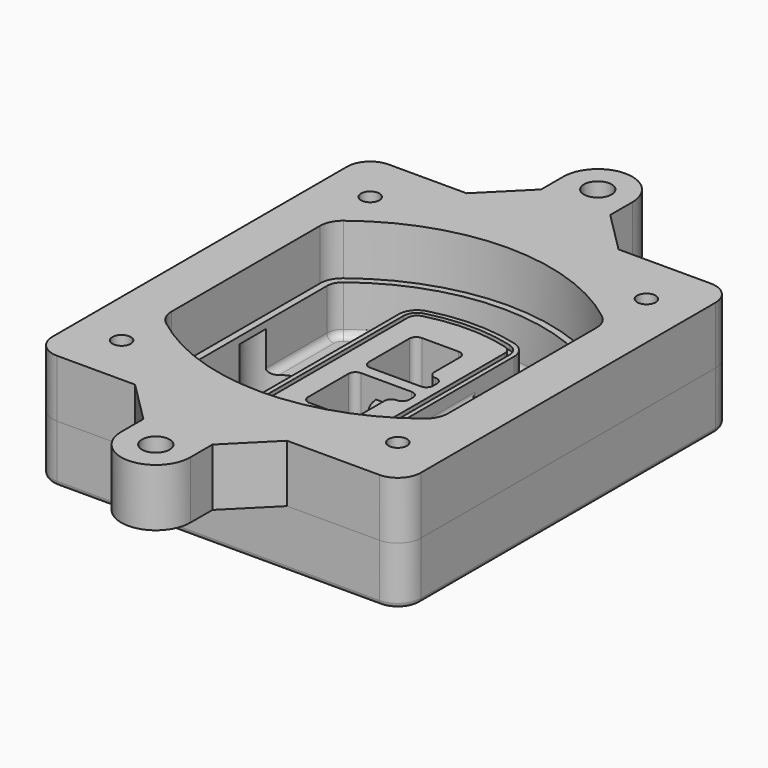
from build123d import *

# Parameters (mm, degrees)
F0_R      = 4
F1_DEPTH  = 25
F2_DEPTH  = 3
F3_DEPTH  = 18
F5_DEPTH  = 21
F6_DEPTH  = 2
F8_DEPTH  = 20
F9_DEPTH  = 16
F10_DEPTH = 25
F7_R      = 6
F7_R_2    = 4
F11_DEPTH = 6
F13_DEPTH = 9
F14_R     = 3
F15_R     = 2
F16_R     = 4
F16_R_2   = 6
F17_DEPTH = 25


with BuildPart() as f1:
    # F0 (on Top) → F1 (new body)
    with BuildSketch(Plane.XY):
        with BuildLine():
            ThreePointArc((-80, -80), (-77.0710678119, -87.0710678119), (-70, -90))
            Line((-70, -90), (70, -90))
            ThreePointArc((70, -90), (77.0710678119, -87.0710678119), (80, -80))
            Line((80, -80), (80, 80))
            ThreePointArc((80, 80), (77.0710678119, 87.0710678119), (70, 90))
            Line((70, 90), (-70, 90))
            ThreePointArc((-70, 90), (-77.0710678119, 87.0710678119), (-80, 80))
            Line((-80, 80), (-80, -80))
        make_face()
        with Locations((-60, -67.5)):
            Circle(F0_R, mode=Mode.SUBTRACT)
        with Locations((60, -67.5)):
            Circle(F0_R, mode=Mode.SUBTRACT)
        with Locations((-60, 67.5)):
            Circle(F0_R, mode=Mode.SUBTRACT)
        with BuildLine():
            ThreePointArc((-64, 40.2934422872), (-62.5820384798, 46.4328484224), (-58.6153846154, 51.3286200352))
            ThreePointArc((-58.6153846154, 51.3286200352), (0, 71.5), (58.6153846154, 51.3286200352))
            ThreePointArc((58.6153846154, 51.3286200352), (62.5820384798, 46.4328484224), (64, 40.2934422872))
            Line((64, 40.2934422872), (64, -40.2934422872))
            ThreePointArc((64, -40.2934422872), (62.5820384798, -46.4328484224), (58.6153846154, -51.3286200352))
            ThreePointArc((58.6153846154, -51.3286200352), (0, -71.5), (-58.6153846154, -51.3286200352))
            ThreePointArc((-58.6153846154, -51.3286200352), (-62.5820384798, -46.4328484224), (-64, -40.2934422872))
            Line((-64, -40.2934422872), (-64, 40.2934422872))
        make_face(mode=Mode.SUBTRACT)
        with Locations((60, 67.5)):
            Circle(F0_R, mode=Mode.SUBTRACT)
        with BuildLine():
            ThreePointArc((58.6153846154, 51.3286200352), (0, 71.5), (-58.6153846154, 51.3286200352))
            ThreePointArc((-58.6153846154, 51.3286200352), (-62.5820384798, 46.4328484224), (-64, 40.2934422872))
            Line((-64, 40.2934422872), (-64, -40.2934422872))
            ThreePointArc((-64, -40.2934422872), (-62.5820384798, -46.4328484224), (-58.6153846154, -51.3286200352))
            ThreePointArc((-58.6153846154, -51.3286200352), (0, -71.5), (58.6153846154, -51.3286200352))
            ThreePointArc((58.6153846154, -51.3286200352), (62.5820384798, -46.4328484224), (64, -40.2934422872))
            Line((64, -40.2934422872), (64, 40.2934422872))
            ThreePointArc((64, 40.2934422872), (62.5820384798, 46.4328484224), (58.6153846154, 51.3286200352))
        make_face()
        with BuildLine():
            Line((-60, -40.2934422872), (-60, 40.2934422872))
            ThreePointArc((-60, 40.2934422872), (-58.9871703427, 44.6787323838), (-56.1538461538, 48.1757121072))
            ThreePointArc((-56.1538461538, 48.1757121072), (0, 67.5), (56.1538461538, 48.1757121072))
            ThreePointArc((56.1538461538, 48.1757121072), (58.9871703427, 44.6787323838), (60, 40.2934422872))
            Line((60, 40.2934422872), (60, -40.2934422872))
            ThreePointArc((60, -40.2934422872), (58.9871703427, -44.6787323838), (56.1538461538, -48.1757121072))
            ThreePointArc((56.1538461538, -48.1757121072), (0, -67.5), (-56.1538461538, -48.1757121072))
            ThreePointArc((-56.1538461538, -48.1757121072), (-58.9871703427, -44.6787323838), (-60, -40.2934422872))
        make_face(mode=Mode.SUBTRACT)
        with BuildLine():
            ThreePointArc((-56.1538461538, 48.1757121072), (-58.9871703427, 44.6787323838), (-60, 40.2934422872))
            Line((-60, 40.2934422872), (-60, -40.2934422872))
            ThreePointArc((-60, -40.2934422872), (-58.9871703427, -44.6787323838), (-56.1538461538, -48.1757121072))
            ThreePointArc((-56.1538461538, -48.1757121072), (0, -67.5), (56.1538461538, -48.1757121072))
            ThreePointArc((56.1538461538, -48.1757121072), (58.9871703427, -44.6787323838), (60, -40.2934422872))
            Line((60, -40.2934422872), (60, 40.2934422872))
            ThreePointArc((60, 40.2934422872), (58.9871703427, 44.6787323838), (56.1538461538, 48.1757121072))
            ThreePointArc((56.1538461538, 48.1757121072), (0, 67.5), (-56.1538461538, 48.1757121072))
        make_face()
        with BuildLine():
            ThreePointArc((54.3076923077, 45.8110311612), (56.2910192399, 43.3631453548), (57, 40.2934422872))
            Line((57, 40.2934422872), (57, -40.2934422872))
            ThreePointArc((57, -40.2934422872), (56.2910192399, -43.3631453548), (54.3076923077, -45.8110311612))
            ThreePointArc((54.3076923077, -45.8110311612), (0, -64.5), (-54.3076923077, -45.8110311612))
            ThreePointArc((-54.3076923077, -45.8110311612), (-56.2910192399, -43.3631453548), (-57, -40.2934422872))
            Line((-57, -40.2934422872), (-57, 40.2934422872))
            ThreePointArc((-57, 40.2934422872), (-56.2910192399, 43.3631453548), (-54.3076923077, 45.8110311612))
            ThreePointArc((-54.3076923077, 45.8110311612), (0, 64.5), (54.3076923077, 45.8110311612))
        make_face(mode=Mode.SUBTRACT)
        with BuildLine():
            Line((57, -40.2934422872), (57, 40.2934422872))
            ThreePointArc((57, 40.2934422872), (56.2910192399, 43.3631453548), (54.3076923077, 45.8110311612))
            ThreePointArc((54.3076923077, 45.8110311612), (0, 64.5), (-54.3076923077, 45.8110311612))
            ThreePointArc((-54.3076923077, 45.8110311612), (-56.2910192399, 43.3631453548), (-57, 40.2934422872))
            Line((-57, 40.2934422872), (-57, -40.2934422872))
            ThreePointArc((-57, -40.2934422872), (-56.2910192399, -43.3631453548), (-54.3076923077, -45.8110311612))
            ThreePointArc((-54.3076923077, -45.8110311612), (0, -64.5), (54.3076923077, -45.8110311612))
            ThreePointArc((54.3076923077, -45.8110311612), (56.2910192399, -43.3631453548), (57, -40.2934422872))
        make_face()
    extrude(amount=-F1_DEPTH)

    # F0 (on Top) → F2 (join)
    with BuildSketch(Plane.XY):
        with BuildLine():
            ThreePointArc((-56.1538461538, 48.1757121072), (-58.9871703427, 44.6787323838), (-60, 40.2934422872))
            Line((-60, 40.2934422872), (-60, -40.2934422872))
            ThreePointArc((-60, -40.2934422872), (-58.9871703427, -44.6787323838), (-56.1538461538, -48.1757121072))
            ThreePointArc((-56.1538461538, -48.1757121072), (0, -67.5), (56.1538461538, -48.1757121072))
            ThreePointArc((56.1538461538, -48.1757121072), (58.9871703427, -44.6787323838), (60, -40.2934422872))
            Line((60, -40.2934422872), (60, 40.2934422872))
            ThreePointArc((60, 40.2934422872), (58.9871703427, 44.6787323838), (56.1538461538, 48.1757121072))
            ThreePointArc((56.1538461538, 48.1757121072), (0, 67.5), (-56.1538461538, 48.1757121072))
        make_face()
        with BuildLine():
            ThreePointArc((54.3076923077, 45.8110311612), (56.2910192399, 43.3631453548), (57, 40.2934422872))
            Line((57, 40.2934422872), (57, -40.2934422872))
            ThreePointArc((57, -40.2934422872), (56.2910192399, -43.3631453548), (54.3076923077, -45.8110311612))
            ThreePointArc((54.3076923077, -45.8110311612), (0, -64.5), (-54.3076923077, -45.8110311612))
            ThreePointArc((-54.3076923077, -45.8110311612), (-56.2910192399, -43.3631453548), (-57, -40.2934422872))
            Line((-57, -40.2934422872), (-57, 40.2934422872))
            ThreePointArc((-57, 40.2934422872), (-56.2910192399, 43.3631453548), (-54.3076923077, 45.8110311612))
            ThreePointArc((-54.3076923077, 45.8110311612), (0, 64.5), (54.3076923077, 45.8110311612))
        make_face(mode=Mode.SUBTRACT)
    extrude(amount=F2_DEPTH)

    # F0 (on Top) → F3 (cut)
    with BuildSketch(Plane.XY):
        with BuildLine():
            Line((57, -40.2934422872), (57, 40.2934422872))
            ThreePointArc((57, 40.2934422872), (56.2910192399, 43.3631453548), (54.3076923077, 45.8110311612))
            ThreePointArc((54.3076923077, 45.8110311612), (0, 64.5), (-54.3076923077, 45.8110311612))
            ThreePointArc((-54.3076923077, 45.8110311612), (-56.2910192399, 43.3631453548), (-57, 40.2934422872))
            Line((-57, 40.2934422872), (-57, -40.2934422872))
            ThreePointArc((-57, -40.2934422872), (-56.2910192399, -43.3631453548), (-54.3076923077, -45.8110311612))
            ThreePointArc((-54.3076923077, -45.8110311612), (0, -64.5), (54.3076923077, -45.8110311612))
            ThreePointArc((54.3076923077, -45.8110311612), (56.2910192399, -43.3631453548), (57, -40.2934422872))
        make_face()
    extrude(amount=-F3_DEPTH, mode=Mode.SUBTRACT)

    # F4 (on face) → F5 (join, through all)
    with BuildSketch(Plane.XY.offset(3)):
        with BuildLine():
            ThreePointArc((-25, -39.2465276821), (-23.3511545998, -44.1109737193), (-19.0842911877, -46.9702398883))
            ThreePointArc((-19.0842911877, -46.9702398883), (0, -49.5), (19.0842911877, -46.9702398883))
            ThreePointArc((19.0842911877, -46.9702398883), (23.3511545998, -44.1109737193), (25, -39.2465276821))
            Line((25, -39.2465276821), (25, 39.2465276821))
            ThreePointArc((25, 39.2465276821), (23.3511545998, 44.1109737193), (19.0842911877, 46.9702398883))
            ThreePointArc((19.0842911877, 46.9702398883), (0, 49.5), (-19.0842911877, 46.9702398883))
            ThreePointArc((-19.0842911877, 46.9702398883), (-23.3511545998, 44.1109737193), (-25, 39.2465276821))
            Line((-25, 39.2465276821), (-25, -39.2465276821))
        make_face()
        with BuildLine():
            ThreePointArc((18.5632183908, 45.0393118368), (21.7633659499, 42.89486221), (23, 39.2465276821))
            Line((23, 39.2465276821), (23, -39.2465276821))
            ThreePointArc((23, -39.2465276821), (21.7633659499, -42.89486221), (18.5632183908, -45.0393118368))
            ThreePointArc((18.5632183908, -45.0393118368), (0, -47.5), (-18.5632183908, -45.0393118368))
            ThreePointArc((-18.5632183908, -45.0393118368), (-21.7633659499, -42.89486221), (-23, -39.2465276821))
            Line((-23, -39.2465276821), (-23, 39.2465276821))
            ThreePointArc((-23, 39.2465276821), (-21.7633659499, 42.89486221), (-18.5632183908, 45.0393118368))
            ThreePointArc((-18.5632183908, 45.0393118368), (0, 47.5), (18.5632183908, 45.0393118368))
        make_face(mode=Mode.SUBTRACT)
        with BuildLine():
            Line((23, -39.2465276821), (23, 39.2465276821))
            ThreePointArc((23, 39.2465276821), (21.7633659499, 42.89486221), (18.5632183908, 45.0393118368))
            ThreePointArc((18.5632183908, 45.0393118368), (0, 47.5), (-18.5632183908, 45.0393118368))
            ThreePointArc((-18.5632183908, 45.0393118368), (-21.7633659499, 42.89486221), (-23, 39.2465276821))
            Line((-23, 39.2465276821), (-23, -39.2465276821))
            ThreePointArc((-23, -39.2465276821), (-21.7633659499, -42.89486221), (-18.5632183908, -45.0393118368))
            ThreePointArc((-18.5632183908, -45.0393118368), (0, -47.5), (18.5632183908, -45.0393118368))
            ThreePointArc((18.5632183908, -45.0393118368), (21.7633659499, -42.89486221), (23, -39.2465276821))
        make_face()
        with BuildLine():
            ThreePointArc((18.0421455939, 43.1083837852), (20.1755772999, 41.6787507007), (21, 39.2465276821))
            Line((21, 39.2465276821), (21, -39.2465276821))
            ThreePointArc((21, -39.2465276821), (20.1755772999, -41.6787507007), (18.0421455939, -43.1083837852))
            ThreePointArc((18.0421455939, -43.1083837852), (0, -45.5), (-18.0421455939, -43.1083837852))
            ThreePointArc((-18.0421455939, -43.1083837852), (-20.1755772999, -41.6787507007), (-21, -39.2465276821))
            Line((-21, -39.2465276821), (-21, 39.2465276821))
            ThreePointArc((-21, 39.2465276821), (-20.1755772999, 41.6787507007), (-18.0421455939, 43.1083837852))
            ThreePointArc((-18.0421455939, 43.1083837852), (0, 45.5), (18.0421455939, 43.1083837852))
        make_face(mode=Mode.SUBTRACT)
        with BuildLine():
            Line((21, -39.2465276821), (21, 39.2465276821))
            ThreePointArc((21, 39.2465276821), (20.1755772999, 41.6787507007), (18.0421455939, 43.1083837852))
            ThreePointArc((18.0421455939, 43.1083837852), (0, 45.5), (-18.0421455939, 43.1083837852))
            ThreePointArc((-18.0421455939, 43.1083837852), (-20.1755772999, 41.6787507007), (-21, 39.2465276821))
            Line((-21, 39.2465276821), (-21, -39.2465276821))
            ThreePointArc((-21, -39.2465276821), (-20.1755772999, -41.6787507007), (-18.0421455939, -43.1083837852))
            ThreePointArc((-18.0421455939, -43.1083837852), (0, -45.5), (18.0421455939, -43.1083837852))
            ThreePointArc((18.0421455939, -43.1083837852), (20.1755772999, -41.6787507007), (21, -39.2465276821))
        make_face()
        with BuildLine():
            Line((-8, -2.5), (14, -2.5))
            ThreePointArc((14, -2.5), (16.1213203436, -3.3786796564), (17, -5.5))
            Line((17, -5.5), (17, -7.5))
            ThreePointArc((17, -7.5), (16.1213203436, -9.6213203436), (14, -10.5))
            ThreePointArc((14, -10.5), (11.8786796564, -11.3786796564), (11, -13.5))
            Line((11, -13.5), (11, -27.5))
            ThreePointArc((11, -27.5), (10.1213203436, -29.6213203436), (8, -30.5))
            Line((8, -30.5), (-8, -30.5))
            ThreePointArc((-8, -30.5), (-10.1213203436, -29.6213203436), (-11, -27.5))
            Line((-11, -27.5), (-11, -5.5))
            ThreePointArc((-11, -5.5), (-10.1213203436, -3.3786796564), (-8, -2.5))
        make_face(mode=Mode.SUBTRACT)
        with BuildLine():
            ThreePointArc((-8, 2.5), (-10.1213203436, 3.3786796564), (-11, 5.5))
            Line((-11, 5.5), (-11, 27.5))
            ThreePointArc((-11, 27.5), (-10.1213203436, 29.6213203436), (-8, 30.5))
            Line((-8, 30.5), (8, 30.5))
            ThreePointArc((8, 30.5), (10.1213203436, 29.6213203436), (11, 27.5))
            Line((11, 27.5), (11, 13.5))
            ThreePointArc((11, 13.5), (11.8786796564, 11.3786796564), (14, 10.5))
            ThreePointArc((14, 10.5), (16.1213203436, 9.6213203436), (17, 7.5))
            Line((17, 7.5), (17, 5.5))
            ThreePointArc((17, 5.5), (16.1213203436, 3.3786796564), (14, 2.5))
            Line((14, 2.5), (-8, 2.5))
        make_face(mode=Mode.SUBTRACT)
    extrude(amount=-F5_DEPTH)

    # F4 (on face) → F6 (cut)
    with BuildSketch(Plane.XY.offset(3)):
        with BuildLine():
            Line((23, -39.2465276821), (23, 39.2465276821))
            ThreePointArc((23, 39.2465276821), (21.7633659499, 42.89486221), (18.5632183908, 45.0393118368))
            ThreePointArc((18.5632183908, 45.0393118368), (0, 47.5), (-18.5632183908, 45.0393118368))
            ThreePointArc((-18.5632183908, 45.0393118368), (-21.7633659499, 42.89486221), (-23, 39.2465276821))
            Line((-23, 39.2465276821), (-23, -39.2465276821))
            ThreePointArc((-23, -39.2465276821), (-21.7633659499, -42.89486221), (-18.5632183908, -45.0393118368))
            ThreePointArc((-18.5632183908, -45.0393118368), (0, -47.5), (18.5632183908, -45.0393118368))
            ThreePointArc((18.5632183908, -45.0393118368), (21.7633659499, -42.89486221), (23, -39.2465276821))
        make_face()
        with BuildLine():
            ThreePointArc((18.0421455939, 43.1083837852), (20.1755772999, 41.6787507007), (21, 39.2465276821))
            Line((21, 39.2465276821), (21, -39.2465276821))
            ThreePointArc((21, -39.2465276821), (20.1755772999, -41.6787507007), (18.0421455939, -43.1083837852))
            ThreePointArc((18.0421455939, -43.1083837852), (0, -45.5), (-18.0421455939, -43.1083837852))
            ThreePointArc((-18.0421455939, -43.1083837852), (-20.1755772999, -41.6787507007), (-21, -39.2465276821))
            Line((-21, -39.2465276821), (-21, 39.2465276821))
            ThreePointArc((-21, 39.2465276821), (-20.1755772999, 41.6787507007), (-18.0421455939, 43.1083837852))
            ThreePointArc((-18.0421455939, 43.1083837852), (0, 45.5), (18.0421455939, 43.1083837852))
        make_face(mode=Mode.SUBTRACT)
    extrude(amount=-F6_DEPTH, mode=Mode.SUBTRACT)

    # F7 (on face) → F8 (join)
    with BuildSketch(Plane(origin=(0, 0, -25), x_dir=(1, 0, 0), z_dir=(0, 0, -1))):
        with BuildLine():
            ThreePointArc((3.28842436, 0), (16.7567035675, 13.4682792075), (30.224982775, 0))
            Line((30.224982775, 0), (35.224982775, 0))
            ThreePointArc((35.224982775, 0), (16.7567035675, 18.4682792075), (-1.71157564, 0))
            Line((-1.71157564, 0), (3.28842436, 0))
        make_face()
        with BuildLine():
            Line((3.28842436, 0), (30.224982775, 0))
            ThreePointArc((30.224982775, 0), (16.7567035675, 13.4682792075), (3.28842436, 0))
        make_face()
        with BuildLine():
            ThreePointArc((3.28842436, 0), (16.7567035675, -13.4682792075), (30.224982775, 0))
            Line((30.224982775, 0), (3.28842436, 0))
        make_face()
        with BuildLine():
            Line((35.224982775, 0), (30.224982775, 0))
            ThreePointArc((30.224982775, 0), (16.7567035675, -13.4682792075), (3.28842436, 0))
            Line((3.28842436, 0), (-1.71157564, 0))
            ThreePointArc((-1.71157564, 0), (16.7567035675, -18.4682792075), (35.224982775, 0))
        make_face()
    extrude(amount=-F8_DEPTH)

    # F7 (on face) → F9 (cut)
    with BuildSketch(Plane(origin=(0, 0, -25), x_dir=(1, 0, 0), z_dir=(0, 0, -1))):
        with BuildLine():
            Line((3.28842436, 0), (30.224982775, 0))
            ThreePointArc((30.224982775, 0), (16.7567035675, 13.4682792075), (3.28842436, 0))
        make_face()
        with BuildLine():
            ThreePointArc((3.28842436, 0), (16.7567035675, -13.4682792075), (30.224982775, 0))
            Line((30.224982775, 0), (3.28842436, 0))
        make_face()
    extrude(amount=-F9_DEPTH, mode=Mode.SUBTRACT)

    # F7 (on face) → F10 (cut)
    with BuildSketch(Plane(origin=(0, 0, -25), x_dir=(1, 0, 0), z_dir=(0, 0, -1))):
        with BuildLine():
            Line((-59.0318229325, 0), (-32.0952645175, 0))
            ThreePointArc((-32.0952645175, 0), (-45.563543725, 13.4682792075), (-59.0318229325, 0))
        make_face()
        with BuildLine():
            ThreePointArc((-59.0318229325, 0), (-45.563543725, -13.4682792075), (-32.0952645175, 0))
            Line((-32.0952645175, 0), (-59.0318229325, 0))
        make_face()
    extrude(amount=-F10_DEPTH, mode=Mode.SUBTRACT)

    # F7 (on face) → F11 (cut)
    with BuildSketch(Plane(origin=(0, 0, -25), x_dir=(1, 0, 0), z_dir=(0, 0, -1))):
        with Locations((60, -67.5)):
            Circle(F7_R)
        with Locations((60, -67.5)):
            Circle(F7_R_2, mode=Mode.SUBTRACT)
        with Locations((60, -67.5)):
            Circle(F7_R)
        with Locations((60, -67.5)):
            Circle(F7_R_2, mode=Mode.SUBTRACT)
        with Locations((-60, -67.5)):
            Circle(F7_R)
        with Locations((-60, -67.5)):
            Circle(F7_R_2, mode=Mode.SUBTRACT)
        with Locations((-60, -67.5)):
            Circle(F7_R)
        with Locations((-60, -67.5)):
            Circle(F7_R_2, mode=Mode.SUBTRACT)
        with Locations((-60, 67.5)):
            Circle(F7_R)
        with Locations((-60, 67.5)):
            Circle(F7_R_2, mode=Mode.SUBTRACT)
        with Locations((-60, 67.5)):
            Circle(F7_R)
        with Locations((-60, 67.5)):
            Circle(F7_R_2, mode=Mode.SUBTRACT)
        with Locations((60, 67.5)):
            Circle(F7_R)
        with Locations((60, 67.5)):
            Circle(F7_R_2, mode=Mode.SUBTRACT)
        with Locations((60, 67.5)):
            Circle(F7_R)
        with Locations((60, 67.5)):
            Circle(F7_R_2, mode=Mode.SUBTRACT)
    extrude(amount=-F11_DEPTH, mode=Mode.SUBTRACT)

    # F12 (on face) → F13 (cut, through all)
    with BuildSketch(Plane(origin=(0, 0, -9), x_dir=(1, 0, 0), z_dir=(0, 0, -1))):
        with BuildLine():
            Line((11, 13.5), (11, 17.5481537753))
            ThreePointArc((11, 17.5481537753), (2.5696536419, 11.8239143813), (-1.5415842455, 2.5))
            Line((-1.5415842455, 2.5), (3.5224848595, 2.5))
            ThreePointArc((3.5224848595, 2.5), (6.1857188154, 8.3455872281), (11.2536447004, 12.2927168648))
            ThreePointArc((11.2536447004, 12.2927168648), (11.0640958889, 12.8831798879), (11, 13.5))
        make_face()
        with BuildLine():
            ThreePointArc((11.2536447004, -12.2927168648), (6.1857188154, -8.3455872281), (3.5224848595, -2.5))
            Line((3.5224848595, -2.5), (-1.5415842455, -2.5))
            ThreePointArc((-1.5415842455, -2.5), (2.5696536419, -11.8239143813), (11, -17.5481537753))
            Line((11, -17.5481537753), (11, -13.5))
            ThreePointArc((11, -13.5), (11.0640958889, -12.8831798879), (11.2536447004, -12.2927168648))
        make_face()
        with BuildLine():
            ThreePointArc((11.2536447004, 12.2927168648), (6.1857188154, 8.3455872281), (3.5224848595, 2.5))
            Line((3.5224848595, 2.5), (14, 2.5))
            ThreePointArc((14, 2.5), (16.1213203436, 3.3786796564), (17, 5.5))
            Line((17, 5.5), (17, 7.5))
            ThreePointArc((17, 7.5), (16.1213203436, 9.6213203436), (14, 10.5))
            ThreePointArc((14, 10.5), (12.3601599782, 10.9878446101), (11.2536447004, 12.2927168648))
        make_face()
        with BuildLine():
            Line((14, -2.5), (3.5224848595, -2.5))
            ThreePointArc((3.5224848595, -2.5), (6.1857188154, -8.3455872281), (11.2536447004, -12.2927168648))
            ThreePointArc((11.2536447004, -12.2927168648), (12.3601599782, -10.9878446101), (14, -10.5))
            ThreePointArc((14, -10.5), (16.1213203436, -9.6213203436), (17, -7.5))
            Line((17, -7.5), (17, -5.5))
            ThreePointArc((17, -5.5), (16.1213203436, -3.3786796564), (14, -2.5))
        make_face()
    extrude(amount=F13_DEPTH, mode=Mode.SUBTRACT)

    # F14
    f14_edges = [f1.edges().sort_by_distance(p)[0] for p in [
        (-57, -23.703476, -18),
        (-57, 23.703476, -18),
        (25, 0, -5),
        (25, 16.526506, -11.5),
        (25, -16.526506, -11.5),
        (25, -27.886517, -18),
        (35.224983, 0, -18),
    ]]
    fillet(f14_edges, radius=F14_R)

    # F15
    f15_edges = [f1.edges().sort_by_distance(p)[0] for p in [
        (0, -90, -25),
    ]]
    fillet(f15_edges, radius=F15_R)


with BuildPart() as f17:
    # F16 (on face) → F17 (new body)
    with BuildSketch(Plane.XY):
        with BuildLine():
            ThreePointArc((70, -90), (77.0710678119, -87.0710678119), (80, -80))
            Line((80, -80), (80, 80))
            ThreePointArc((80, 80), (77.0710678119, 87.0710678119), (70, 90))
            Line((70, 90), (29.8724188954, 90))
            Line((29.8724188954, 90), (-36.1275811046, 90))
            Line((-36.1275811046, 90), (-70, 90))
            ThreePointArc((-70, 90), (-77.0710678119, 87.0710678119), (-80, 80))
            Line((-80, 80), (-80, -80))
            ThreePointArc((-80, -80), (-77.0710678119, -87.0710678119), (-70, -90))
            Line((-70, -90), (-36.1275811046, -90))
            Line((-36.1275811046, -90), (29.8724188954, -90))
            Line((29.8724188954, -90), (70, -90))
        make_face()
        with Locations((-60, -67.5)):
            Circle(F16_R, mode=Mode.SUBTRACT)
        with Locations((60, -67.5)):
            Circle(F16_R, mode=Mode.SUBTRACT)
        with Locations((-60, 67.5)):
            Circle(F16_R, mode=Mode.SUBTRACT)
        with BuildLine():
            ThreePointArc((-56.1538461538, 48.1757121072), (0, 67.5), (56.1538461538, 48.1757121072))
            ThreePointArc((56.1538461538, 48.1757121072), (58.9871703427, 44.6787323838), (60, 40.2934422872))
            Line((60, 40.2934422872), (60, -40.2934422872))
            ThreePointArc((60, -40.2934422872), (58.9871703427, -44.6787323838), (56.1538461538, -48.1757121072))
            ThreePointArc((56.1538461538, -48.1757121072), (0, -67.5), (-56.1538461538, -48.1757121072))
            ThreePointArc((-56.1538461538, -48.1757121072), (-58.9871703427, -44.6787323838), (-60, -40.2934422872))
            Line((-60, -40.2934422872), (-60, 40.2934422872))
            ThreePointArc((-60, 40.2934422872), (-58.9871703427, 44.6787323838), (-56.1538461538, 48.1757121072))
        make_face(mode=Mode.SUBTRACT)
        with Locations((60, 67.5)):
            Circle(F16_R, mode=Mode.SUBTRACT)
        with BuildLine():
            Line((11.8724188954, -108), (29.8724188954, -90))
            Line((29.8724188954, -90), (-36.1275811046, -90))
            Line((-36.1275811046, -90), (-18.1275811046, -108))
            Line((-18.1275811046, -108), (-18.1275811046, -120))
            ThreePointArc((-18.1275811046, -120), (-3.1275811046, -135), (11.8724188954, -120))
            Line((11.8724188954, -120), (11.8724188954, -108))
        make_face()
        with Locations((-3.1275811046, -120)):
            Circle(F16_R_2, mode=Mode.SUBTRACT)
        with BuildLine():
            Line((-36.1275811046, 90), (29.8724188954, 90))
            Line((29.8724188954, 90), (11.8724188954, 108))
            Line((11.8724188954, 108), (11.8724188954, 120))
            ThreePointArc((11.8724188954, 120), (-3.1275811046, 135), (-18.1275811046, 120))
            Line((-18.1275811046, 120), (-18.1275811046, 108))
            Line((-18.1275811046, 108), (-36.1275811046, 90))
        make_face()
        with Locations((-3.1275811046, 120)):
            Circle(F16_R_2, mode=Mode.SUBTRACT)
    extrude(amount=F17_DEPTH)


solid = Compound([f1.part, f17.part])
